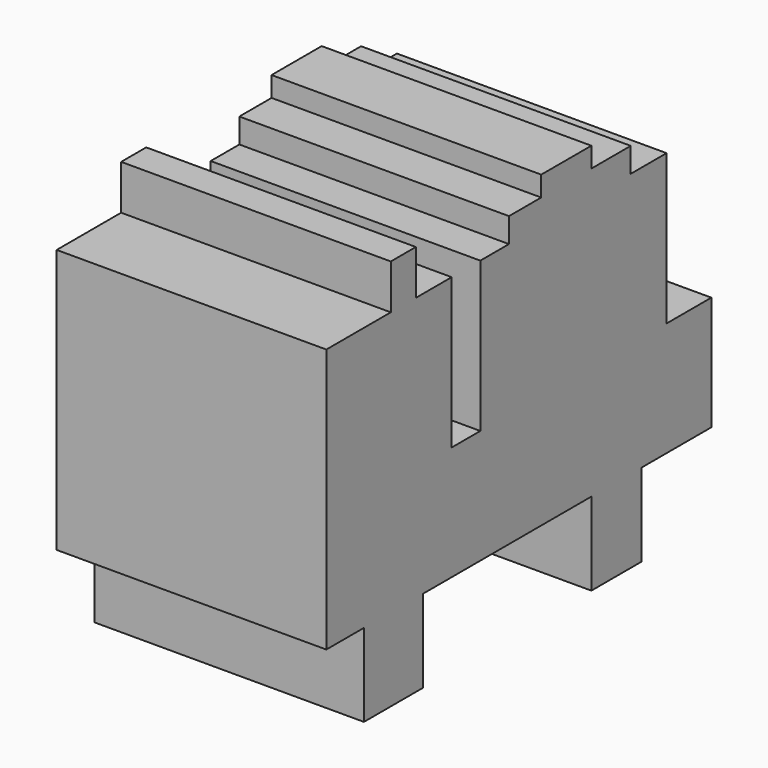
from build123d import *

# Parameters (mm, degrees)
F0_W     = 8.8552413508
F0_H     = 2.8463285416
F0_W_2   = 4.4276230037
F0_H_2   = 6.3251759857
F0_H_3   = 11.7015708238
F0_W_3   = 10.4365367442
F1_DEPTH = 38.1


with BuildPart() as f1:
    # F0 (on Right) → F1 (new body)
    with BuildSketch(Plane.YZ):
        Polygon((-14.5478984341, 21.1860537529), (6.9576902315, 21.1860537529), (6.9576902315, 24.664901197), (0, 24.664901197), (-8.8552413508, 24.664901197), (-14.5478984341, 24.664901197), align=None)
        with Locations((-4.4276206754, 26.0880654678)):
            Rectangle(F0_W, F0_H)
        Polygon((-19.6080375463, 0), (13.2828634232, 0), (13.2828634232, 21.1860537529), (6.9576902315, 21.1860537529), (-14.5478984341, 21.1860537529), (-19.6080375463, 21.1860537529), align=None)
        Polygon((8.8552413508, -16.132466495), (21.1893301457, -16.132466495), (21.1893301457, 0), (13.2828634232, 0), (-19.6080375463, 0), (-24.6681738645, 0), (-46.8062832952, 0), (-46.8062832952, -16.132466495), (-40.1648506522, -16.132466495), (-29.728313908, -16.132466495), (0, -16.132466495), align=None)
        Polygon((-46.8062832952, 0), (-24.6681738645, 0), (-24.6681738645, 21.1860537529), (-30.9933461249, 21.1860537529), (-35.4209691286, 21.1860537529), (-46.8062832952, 21.1860537529), align=None)
        with Locations((-33.2071576267, 24.3486417457)):
            Rectangle(F0_W_2, F0_H_2)
        with Locations((4.4276206754, -21.9832519069)):
            Rectangle(F0_W, F0_H_3)
        with Locations((-34.9465822801, -21.9832519069)):
            Rectangle(F0_W_3, F0_H_3)
    extrude(amount=F1_DEPTH)


solid = f1.part
